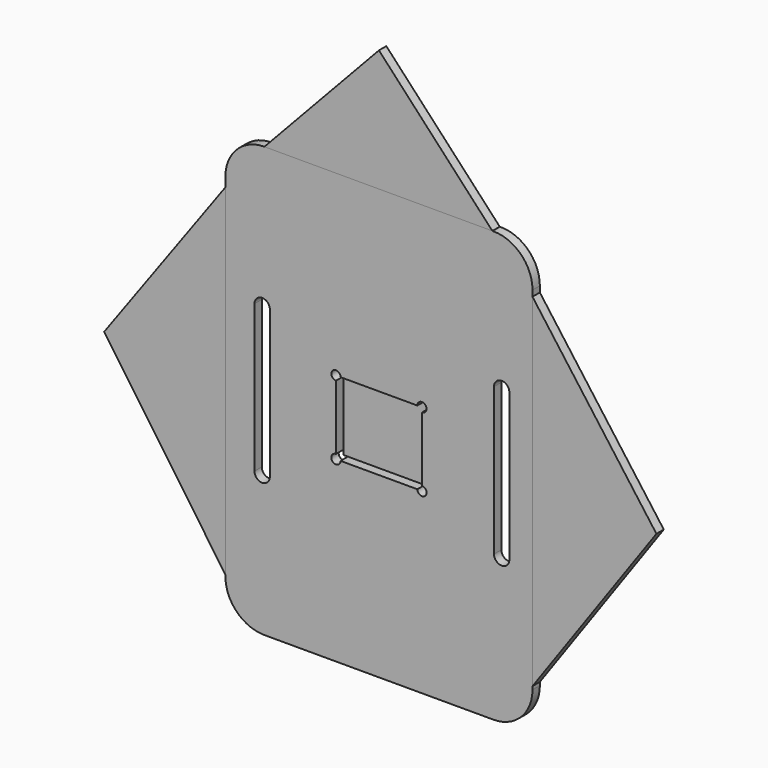
from build123d import *

# Parameters (mm, degrees)
F2_DEPTH  = 3
F3_DEPTH  = 25.4
F4_DEPTH  = 3
F5_W      = 28
F5_H      = 24
F7_DEPTH  = 85.948869586
F8_DEPTH  = 0.5817031488
F8_FACE_W = 28
F8_FACE_H = 24
F9_DEPTH  = 13.2057741284
F10_DEPTH = 0.00254
F12_D     = 3
F11_W     = 28
F11_H     = 24
F13_DEPTH = 0.0001


with BuildPart() as f2:
    # F1 (on face) → F2 (new body)
    with BuildSketch(Plane.XZ):
        Polygon((-50.000027, -56.8075293898), (-50.000027, 54.2340109895), (-89.4667699399, 0), align=None)
    extrude(amount=F2_DEPTH)


with BuildPart() as f2b:
    # F0 (on Front) → F2, piece 2 (new body)
    with BuildSketch(Plane.XZ):
        with BuildLine():
            Line((37.300027, 69.999987), (-37.300027, 69.999987))
            ThreePointArc((-37.300027, 69.999987), (-46.2802831211, 66.2802431211), (-50.000027, 57.299987))
            Line((-50.000027, 57.299987), (-50.000027, -57.299987))
            ThreePointArc((-50.000027, -57.299987), (-46.2802831211, -66.2802431211), (-37.300027, -69.999987))
            Line((-37.300027, -69.999987), (37.300027, -69.999987))
            ThreePointArc((37.300027, -69.999987), (46.2802831211, -66.2802431211), (50.000027, -57.299987))
            Line((50.000027, -57.299987), (50.000027, 57.299987))
            ThreePointArc((50.000027, 57.299987), (46.2802831211, 66.2802431211), (37.300027, 69.999987))
        make_face()
    extrude(amount=F2_DEPTH)

    # F1 (on face) → F3 (cut)
    with BuildSketch(Plane.XZ):
        with BuildLine():
            ThreePointArc((-35.5288300744, 23.9294660024), (-38.0288250744, 26.4294610024), (-40.5288200744, 23.9294660024))
            Line((-40.5288200744, 23.9294660024), (-40.5288200744, -24.0704379976))
            ThreePointArc((-40.5288200744, -24.0704379976), (-38.0288250744, -26.5704329976), (-35.5288300744, -24.0704379976))
            Line((-35.5288300744, -24.0704379976), (-35.5288300744, 23.9294660024))
        make_face()
        with BuildLine():
            ThreePointArc((42.4712679256, 25.5365972154), (39.9712729256, 28.0365922154), (37.4712779256, 25.5365972154))
            Line((37.4712779256, 25.5365972154), (37.4712779256, -22.4633067846))
            ThreePointArc((37.4712779256, -22.4633067846), (39.9712729256, -24.9633017846), (42.4712679256, -22.4633067846))
            Line((42.4712679256, -22.4633067846), (42.4712679256, 25.5365972154))
        make_face()
    extrude(amount=F3_DEPTH, mode=Mode.SUBTRACT)

    # F5 (on face) → F7 (cut)
    with BuildSketch(Plane(origin=(0, 0, 0), x_dir=(-1, 0, 0), z_dir=(0, 1, 0))):
        Rectangle(F5_W, F5_H)
    extrude(amount=-F7_DEPTH, mode=Mode.SUBTRACT)

    # F5 (on face) → F8 (join)
    with BuildSketch(Plane(origin=(0, 0, 0), x_dir=(-1, 0, 0), z_dir=(0, 1, 0))):
        Rectangle(F5_W, F5_H)
    extrude(amount=-F8_DEPTH)

    # F8_face (on face) + F6 (on face) → F9 (cut)
    with BuildSketch(Plane(origin=(0, -0.5817031488, 0), x_dir=(-1, 0, 0), z_dir=(0, -1, 0))):
        Rectangle(F8_FACE_W, F8_FACE_H)
    with BuildSketch(Plane(origin=(0, 0, 0), x_dir=(-1, 0, 0), z_dir=(0, 1, 0))):
        with BuildLine():
            ThreePointArc((-6.0618435964, -5.8568658896), (-7.3318436153, -7.1268659085), (-6.0618435964, -8.3968659274))
            Line((-6.0618435964, -8.3968659274), (7.4327886105, -8.3968659274))
            ThreePointArc((7.4327886105, -8.3968659274), (8.7027886294, -7.1268659085), (7.4327886105, -5.8568658896))
            Line((7.4327886105, -5.8568658896), (-6.0618435964, -5.8568658896))
        make_face()
        with BuildLine():
            ThreePointArc((-4.9149026163, 7.7529164374), (-6.1849026352, 6.4829164185), (-4.9149026163, 5.2129163995))
            Line((-4.9149026163, 5.2129163995), (7.4327886105, 5.2129163995))
            ThreePointArc((7.4327886105, 5.2129163995), (8.7027886294, 6.4829164185), (7.4327886105, 7.7529164374))
            Line((7.4327886105, 7.7529164374), (-4.9149026163, 7.7529164374))
        make_face()
    extrude(amount=-F9_DEPTH, dir=(0, -1, 0), mode=Mode.SUBTRACT)

    # F12 (through all)
    with Locations(Plane(origin=(0, 0, 0), x_dir=(-1, 0, 0), z_dir=(0, 1, 0))):
        with Locations((14, 12), (14, -12), (-14, 12), (-14, -12)):
            Hole(F12_D / 2)



with BuildPart() as f4:
    # F1 (on face) → F4 (new body)
    with BuildSketch(Plane.XZ):
        Polygon((-37.2853103149, 69.999987), (36.934749776, 69.999987), (0, 109.7605493885), align=None)
    extrude(amount=F4_DEPTH)


with BuildPart() as f4b:
    # F1 (on face) → F4, piece 2 (new body)
    with BuildSketch(Plane.XZ):
        Polygon((90.3611274951, 0.5484864628), (50.000027, 55.3734117853), (50.000027, -56.2577831508), align=None)
    extrude(amount=F4_DEPTH)


with BuildPart() as f10:
    # F5 (on face) → F10 (new body)
    with BuildSketch(Plane(origin=(0, 0, 0), x_dir=(-1, 0, 0), z_dir=(0, 1, 0))):
        Rectangle(F5_W, F5_H)
    extrude(amount=F10_DEPTH)


with BuildPart() as f2b_1:
    add(f2b.part)

    add(f10.part)  # F13 merges F10
    # F11 (on face) → F13 (join)
    with BuildSketch(Plane(origin=(0, 0, 0), x_dir=(-1, 0, 0), z_dir=(0, 1, 0))):
        Rectangle(F11_W, F11_H)
    extrude(amount=F13_DEPTH)


solid = Compound([f2.part, f4.part, f4b.part, f2b_1.part])
